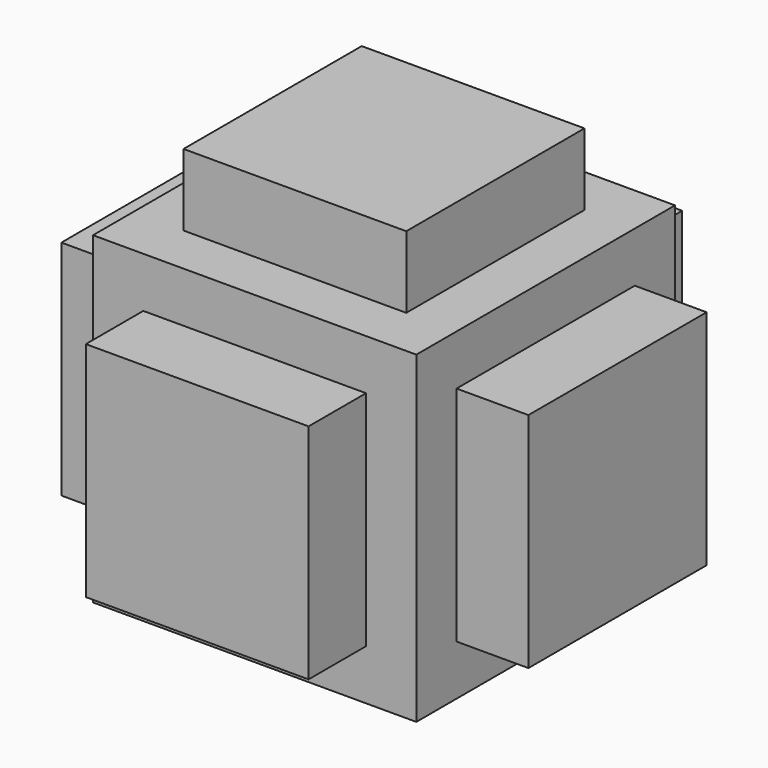
from build123d import *

# Parameters (mm, degrees)
F0_W      = 18
F0_H      = 18
F1_DEPTH  = 18
F2_W      = 12.4
F2_H      = 12.4
F3_DEPTH  = 4
F4_DEPTH  = 4
F5_W      = 6.2
F5_H      = 12.4
F6_DEPTH  = 4
F7_W      = 6.2
F7_H      = 12.4
F8_DEPTH  = 4
F9_W      = 6.2
F9_H      = 12.4
F10_DEPTH = 4
F11_W     = 6.2
F11_H     = 12.4
F12_DEPTH = 4


with BuildPart() as f1:
    # F0 (on Top) → F1 (new body)
    with BuildSketch(Plane.XY):
        Rectangle(F0_W, F0_H)
    extrude(amount=F1_DEPTH)

    # F2 (on face) → F3 (join)
    with BuildSketch(Plane.XY.offset(18)):
        Rectangle(F2_W, F2_H)
    extrude(amount=F3_DEPTH)

    # F2 (on face) → F4 (join)
    with BuildSketch(Plane.XY.offset(18)):
        Rectangle(F2_W, F2_H)
    extrude(amount=-F4_DEPTH)

    # F5 (on face) → F6 (join)
    with BuildSketch(Plane(origin=(0, 9, 0), x_dir=(-1, 0, 0), z_dir=(0, 1, 0))):
        with Locations((3.1, 9)):
            Rectangle(F5_W, F5_H)
        with Locations((-3.1, 9)):
            Rectangle(F5_W, F5_H)
    extrude(amount=F6_DEPTH)

    # F7 (on face) → F8 (join)
    with BuildSketch(Plane(origin=(-9, 0, 0), x_dir=(0, -1, 0), z_dir=(-1, 0, 0))):
        with Locations((3.1, 9)):
            Rectangle(F7_W, F7_H)
        with Locations((-3.1, 9)):
            Rectangle(F7_W, F7_H)
    extrude(amount=F8_DEPTH)

    # F9 (on face) → F10 (join)
    with BuildSketch(Plane.YZ.offset(9)):
        with Locations((3.1, 9)):
            Rectangle(F9_W, F9_H)
        with Locations((-3.1, 9)):
            Rectangle(F9_W, F9_H)
    extrude(amount=F10_DEPTH)

    # F11 (on face) → F12 (join)
    with BuildSketch(Plane.XZ.offset(9)):
        with Locations((3.1, 9)):
            Rectangle(F11_W, F11_H)
        with Locations((-3.1, 9)):
            Rectangle(F11_W, F11_H)
    extrude(amount=F12_DEPTH)


solid = f1.part
